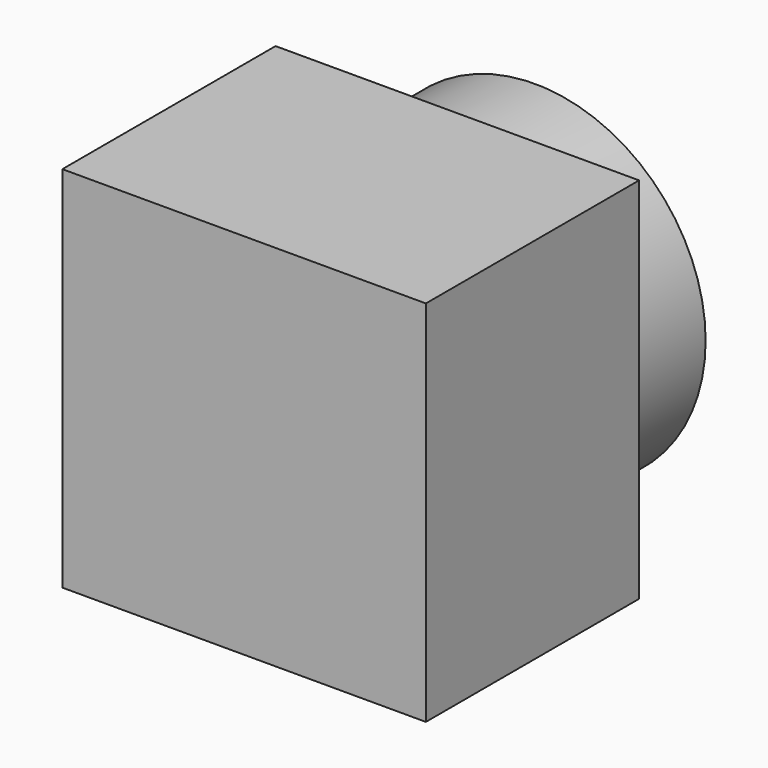
from build123d import *

# Parameters (mm, degrees)
SKETCH001_W  = 29.6
SKETCH001_H  = 21.7
PAD001_DEPTH = 15
SKETCH003_R  = 13.9
PAD002_DEPTH = 7.9
SKETCH004_R  = 1.5
POCKET_DEPTH = 15.001


with BuildPart() as part:
    # Sketch001 → Pad001 (new body, symmetric)
    with BuildSketch(Plane.XY):
        with Locations((0, -10.85)):
            Rectangle(SKETCH001_W, SKETCH001_H)
    extrude(amount=PAD001_DEPTH, both=True)

    # Sketch003 → Pad002 (join)
    with BuildSketch(Plane.XZ):
        Circle(SKETCH003_R)
    extrude(amount=-PAD002_DEPTH)

    # Sketch004 → Pocket (cut, through all)
    with BuildSketch(Plane.XY):
        with Locations((-10, -5.1)):
            Circle(SKETCH004_R)
        with Locations((10, -5.1)):
            Circle(SKETCH004_R)
    extrude(amount=-POCKET_DEPTH, mode=Mode.SUBTRACT)


solid = part.part
